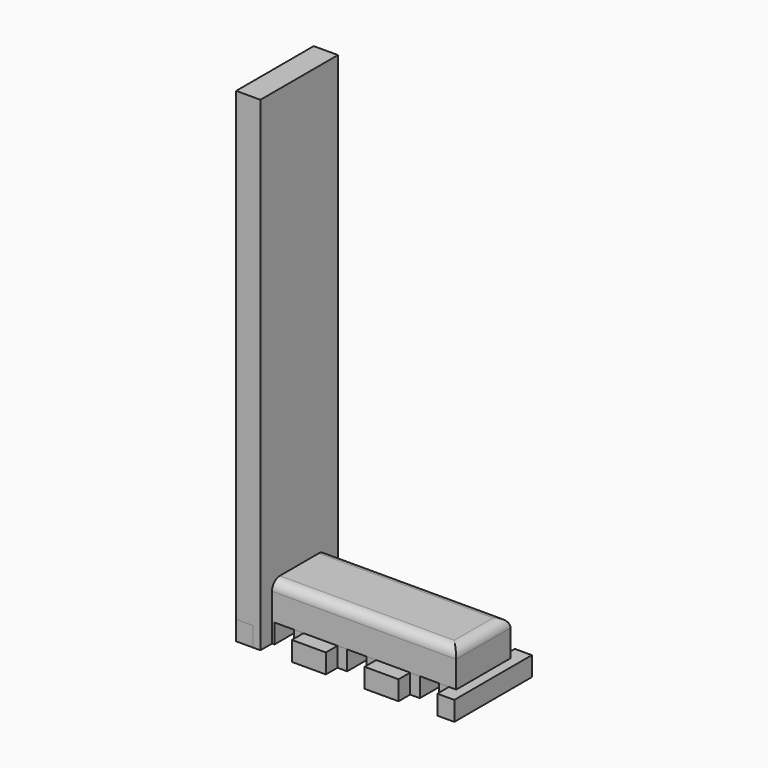
from build123d import *

# Parameters (mm, degrees)
SKETCH003_W      = 4.1
SKETCH003_H      = 1.4
EXTRUDE003_DEPTH = 0.75
FILLET_R         = 0.2
BOX001_W         = 0.5
BOX001_H         = 2
BOX001_DEPTH     = 10
SKETCH004_W      = 0.5
SKETCH004_H      = 0.25
EXTRUDE004_DEPTH = 0.4
EXTRUDE_DEPTH    = 0.4
EXTRUDE001_DEPTH = 0.4
EXTRUDE002_DEPTH = 0.4
BOX_W            = 4.5
BOX_H            = 2
BOX_DEPTH        = 0.4


with BuildPart() as lid:
    # Sketch003 → Extrude003 (new body)
    with BuildSketch(Plane.XY):
        Rectangle(SKETCH003_W, SKETCH003_H)
    extrude(amount=EXTRUDE003_DEPTH)


with BuildPart() as lid_1:
    # Extrude003 placement: moved
    add(lid.part.moved(Location((0, 0, 0.4))))

    # Fillet
    fillet_edges = [lid_1.edges().sort_by_distance(p)[0] for p in [
        (0, 0.7, 1.15),
        (2.05, 0, 1.15),
        (0, -0.7, 1.15),
        (-2.05, 0, 1.15),
    ]]
    fillet(fillet_edges, radius=FILLET_R)


with BuildPart() as cube:
    # Box001 → Box001 (new body)
    with BuildSketch(Plane(origin=(-2.25, -1, 0), x_dir=(1, 0, 0), z_dir=(0, 0, 1))):
        with Locations((0.25, 1)):
            Rectangle(BOX001_W, BOX001_H)
    extrude(amount=BOX001_DEPTH)


with BuildPart() as delete_holes:
    # Sketch004 (on Cut) → Extrude004 (new body)
    with BuildSketch(Plane.XY):
        with Locations((-1.52, -0.905)):
            Rectangle(SKETCH004_W, SKETCH004_H)
        with Locations((-1.52, 0.905)):
            Rectangle(SKETCH004_W, SKETCH004_H)
        with Locations((0, 0.895)):
            Rectangle(SKETCH004_W, SKETCH004_H)
        with Locations((0, -0.895)):
            Rectangle(SKETCH004_W, SKETCH004_H)
        with Locations((1.52, -0.905)):
            Rectangle(SKETCH004_W, SKETCH004_H)
        with Locations((1.52, 0.905)):
            Rectangle(SKETCH004_W, SKETCH004_H)
    extrude(amount=EXTRUDE004_DEPTH)


with BuildPart() as pad2:
    # Sketch → Extrude (new body)
    with BuildSketch(Plane.XY):
        with BuildLine():
            Line((-0.2, 0.7), (-0.2, -0.7))
            Line((-0.2, -0.7), (-0.4, -0.7))
            Line((-0.4, -0.7), (-0.4, -1))
            Line((-0.4, -1), (-0.2, -1))
            ThreePointArc((0.2, -1), (0, -0.8), (-0.2, -1))
            Line((0.2, -1), (0.4, -1))
            Line((0.4, -1), (0.4, -0.7))
            Line((0.4, -0.7), (0.2, -0.7))
            Line((0.2, -0.7), (0.2, 0.7))
            Line((0.2, 0.7), (0.4, 0.7))
            Line((0.4, 0.7), (0.4, 1))
            Line((0.4, 1), (0.2, 1))
            ThreePointArc((-0.2, 1), (0, 0.8), (0.2, 1))
            Line((-0.2, 1), (-0.4, 1))
            Line((-0.4, 1), (-0.4, 0.7))
            Line((-0.4, 0.7), (-0.2, 0.7))
        make_face()
    extrude(amount=EXTRUDE_DEPTH)


with BuildPart() as pad1:
    # Sketch001 → Extrude001 (new body)
    with BuildSketch(Plane(origin=(1.5, 0, 0), x_dir=(1, 0, 0), z_dir=(0, 0, 1))):
        with BuildLine():
            Line((-0.2, 0.7), (-0.2, -0.7))
            Line((-0.2, -0.7), (-0.4, -0.7))
            Line((-0.4, -0.7), (-0.4, -1))
            Line((-0.4, -1), (-0.2, -1))
            ThreePointArc((0.2, -1), (0, -0.8), (-0.2, -1))
            Line((0.2, -1), (0.4, -1))
            Line((0.4, -1), (0.4, -0.7))
            Line((0.4, -0.7), (0.2, -0.7))
            Line((0.2, -0.7), (0.2, 0.7))
            Line((0.2, 0.7), (0.4, 0.7))
            Line((0.4, 0.7), (0.4, 1))
            Line((0.4, 1), (0.2, 1))
            ThreePointArc((-0.2, 1), (0, 0.8), (0.2, 1))
            Line((-0.2, 1), (-0.4, 1))
            Line((-0.4, 1), (-0.4, 0.7))
            Line((-0.4, 0.7), (-0.2, 0.7))
        make_face()
    extrude(amount=EXTRUDE001_DEPTH)


with BuildPart() as pads:
    # Sketch002 → Extrude002 (new body)
    with BuildSketch(Plane(origin=(-1.5, 0, 0), x_dir=(1, 0, 0), z_dir=(0, 0, 1))):
        with BuildLine():
            Line((-0.2, 0.7), (-0.2, -0.7))
            Line((-0.2, -0.7), (-0.4, -0.7))
            Line((-0.4, -0.7), (-0.4, -1))
            Line((-0.4, -1), (-0.2, -1))
            ThreePointArc((0.2, -1), (0, -0.8), (-0.2, -1))
            Line((0.2, -1), (0.4, -1))
            Line((0.4, -1), (0.4, -0.7))
            Line((0.4, -0.7), (0.2, -0.7))
            Line((0.2, -0.7), (0.2, 0.7))
            Line((0.2, 0.7), (0.4, 0.7))
            Line((0.4, 0.7), (0.4, 1))
            Line((0.4, 1), (0.2, 1))
            ThreePointArc((-0.2, 1), (0, 0.8), (0.2, 1))
            Line((-0.2, 1), (-0.4, 1))
            Line((-0.4, 1), (-0.4, 0.7))
            Line((-0.4, 0.7), (-0.2, 0.7))
        make_face()
    extrude(amount=EXTRUDE002_DEPTH)

    # Fusion: union pad2, pad1
    add(pad2.part)
    add(pad1.part)


with BuildPart() as base_cut2:
    # Box → Box (new body)
    with BuildSketch(Plane(origin=(-2.25, -1, 0), x_dir=(1, 0, 0), z_dir=(0, 0, 1))):
        with Locations((2.25, 1)):
            Rectangle(BOX_W, BOX_H)
    extrude(amount=BOX_DEPTH)

    # Cut: cut pads
    add(pads.part, mode=Mode.SUBTRACT)

    # Cut001: cut delete_holes
    add(delete_holes.part, mode=Mode.SUBTRACT)


solid = Compound([lid_1.part, cube.part, base_cut2.part])
